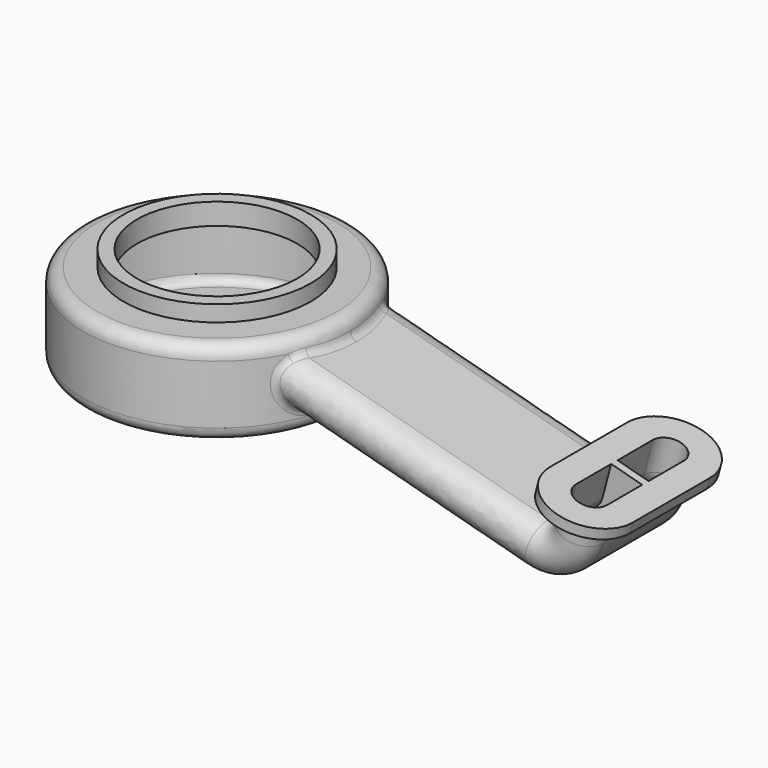
from build123d import *

# Parameters (mm, degrees)
SKETCH_R        = 50
PAD_DEPTH       = 32
SKETCH001_R     = 35
PAD001_DEPTH    = 6
PAD002_DEPTH    = 4
SKETCH006_W     = 3
SKETCH006_H     = 13
POCKET_START    = 2
SKETCH007_R     = 48
POCKET_DEPTH    = 28
SKETCH008_R     = 30
POCKET001_DEPTH = 8
FILLET_R        = 5
FILLET001_R     = 3
FILLET002_R     = 3
FILLET003_R     = 3
POCKET002_DEPTH = 2.5


with BuildPart() as part:
    # Sketch → Pad (new body)
    with BuildSketch(Plane.XY):
        Circle(SKETCH_R)
    extrude(amount=PAD_DEPTH)

    # Sketch001 (on Face3 of Pad) → Pad001 (join)
    with BuildSketch(Plane.XY.offset(32)):
        Circle(SKETCH001_R)
    extrude(amount=PAD001_DEPTH)

    # AdditivePipe: sweep along a path in Sketch002
    with BuildLine(Plane.XZ) as additivepipe_path:
        Line((25, 23.41652), (136.483601, -6.45542))
        ThreePointArc((136.483601, -6.45542), (145.589429, -5.256615), (151.180539, 2.029861))
        Line((151.180539, 2.029861), (154.545187, 14.586897))
    # Sketch003 (on DatumPlane) → AdditivePipe (sweep)
    with BuildSketch(Plane(origin=(154.545187, 0, 14.586897), x_dir=(0, -1, 0), z_dir=(-0.258819, 0, -0.965926))):
        with BuildLine():
            ThreePointArc((-18, 8), (-26, 0), (-18, -8))
            Line((-18, -8), (18, -8))
            ThreePointArc((18, -8), (26, 0), (18, 8))
            Line((18, 8), (-18, 8))
        make_face()
    sweep(path=additivepipe_path.line)

    # Sketch004 (on DatumPlane) → Pad002 (join)
    with BuildSketch(Plane(origin=(154.545187, 0, 14.586897), x_dir=(0, -1, 0), z_dir=(-0.258819, 0, -0.965926))):
        with BuildLine():
            ThreePointArc((-18, 16), (-34, 0), (-18, -16))
            Line((-18, -16), (18, -16))
            ThreePointArc((18, -16), (34, 0), (18, 16))
            Line((18, 16), (-18, 16))
        make_face()
    extrude(amount=PAD002_DEPTH)

    # SubtractivePipe: sweep along a path in Sketch002
    with BuildLine(Plane.XZ) as subtractivepipe_path:
        Line((25, 23.41652), (136.483601, -6.45542))
        ThreePointArc((136.483601, -6.45542), (145.589429, -5.256615), (151.180539, 2.029861))
        Line((151.180539, 2.029861), (154.545187, 14.586897))
    # Sketch005 (on DatumPlane) → SubtractivePipe (sweep, cut)
    with BuildSketch(Plane(origin=(154.286368, 0, 13.620971), x_dir=(0, -1, 0), z_dir=(-0.258819, 0, -0.965926))):
        with BuildLine():
            ThreePointArc((-18, 6), (-24, 0), (-18, -6))
            Line((-18, -6), (-1.5, -6))
            Line((-1.5, -6), (1.5, -6))
            Line((1.5, -6), (18, -6))
            ThreePointArc((18, -6), (24, 0), (18, 6))
            Line((18, 6), (1.5, 6))
            Line((-1.5, 6), (1.5, 6))
            Line((-1.5, 6), (-18, 6))
        make_face()
    sweep(path=subtractivepipe_path.line, mode=Mode.SUBTRACT)

    # AdditivePipe001: sweep along a path in Sketch002
    with BuildLine(Plane.XZ) as additivepipe001_path:
        Line((25, 23.41652), (136.483601, -6.45542))
        ThreePointArc((136.483601, -6.45542), (145.589429, -5.256615), (151.180539, 2.029861))
        Line((151.180539, 2.029861), (154.545187, 14.586897))
    # Sketch006 (on DatumPlane) → AdditivePipe001 (sweep)
    with BuildSketch(Plane(origin=(154.545187, 0, 14.586897), x_dir=(0, -1, 0), z_dir=(-0.258819, 0, -0.965926))):
        Rectangle(SKETCH006_W, SKETCH006_H)
    sweep(path=additivepipe001_path.line)

    # Sketch007 → Pocket (cut)
    with BuildSketch(Plane.XY.offset(POCKET_START)):
        Circle(SKETCH007_R)
    extrude(amount=POCKET_DEPTH, mode=Mode.SUBTRACT)

    # Sketch008 (on Face16 of Pocket) → Pocket001 (cut)
    with BuildSketch(Plane.XY.offset(38)):
        Circle(SKETCH008_R)
    extrude(amount=-POCKET001_DEPTH, mode=Mode.SUBTRACT)

    # Fillet
    fillet_edges = [part.edges().sort_by_distance(p)[0] for p in [
        (-50, 0, 32),
        (-50, 0, 0),
    ]]
    fillet(fillet_edges, radius=FILLET_R)

    # Fillet001
    fillet001_edges = [part.edges().sort_by_distance(p)[0] for p in [
        (-48, 0, 2),
    ]]
    fillet(fillet001_edges, radius=FILLET001_R)

    # Fillet002
    fillet002_edges = [part.edges().sort_by_distance(p)[0] for p in [
        (-48, 0, 30),
    ]]
    fillet(fillet002_edges, radius=FILLET002_R)

    # Fillet003
    fillet003_edges = [part.edges().sort_by_distance(p)[0] for p in [
        (49.152781, 9.165376, 25.227012),
        (49.152781, -9.165376, 25.227012),
    ]]
    fillet(fillet003_edges, radius=FILLET003_R)

    # Sketch009 → Pocket002 (cut, symmetric)
    with BuildSketch(Plane.XZ):
        Polygon((60, 20.249956), (60, 7.826642), (38.588519, 13.56383), (40.132142, 25.573532), align=None)
    extrude(amount=POCKET002_DEPTH, both=True, mode=Mode.SUBTRACT)


solid = part.part
